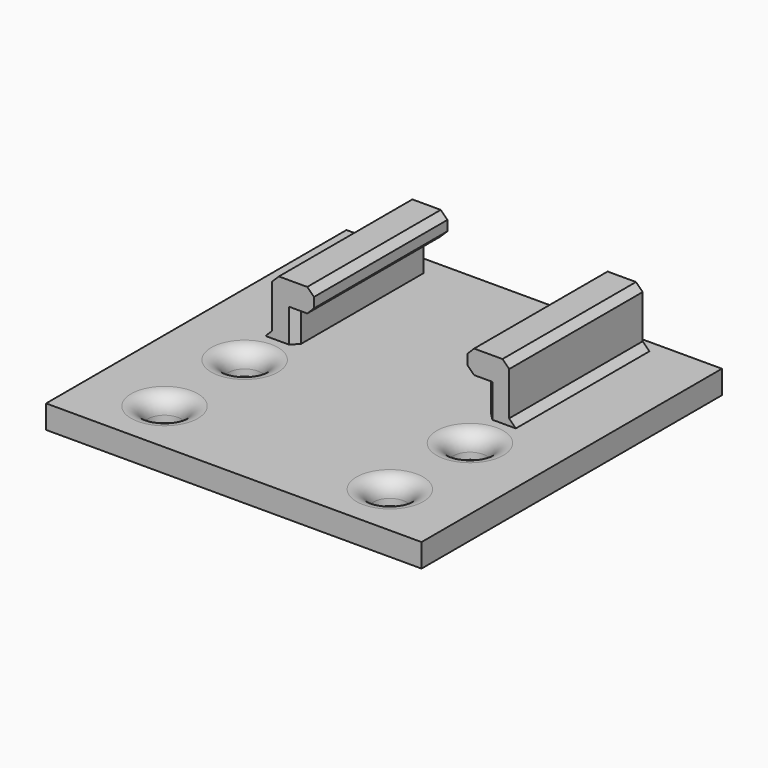
from build123d import *

# Parameters (mm, degrees)
F0_W      = 57.15
F0_H      = 31.75
F0_R      = 2.54
F1_DEPTH  = 3.556
F2_W      = 57.15
F2_H      = 25.4
F3_DEPTH  = 3.556
F4_R      = 2.54
F5_W      = 3.556
F5_H      = 25.4
F6_DEPTH  = 5.08
F7_W      = 6.35
F7_H      = 25.4
F8_DEPTH  = 3.556
F9_SIZE   = 1.016
F11_DEPTH = 7.62
F12_R     = 9.8916732659
F13_DEPTH = 25.4
F14_R     = 0.8


with BuildPart() as f1:
    # F0 (on Top) → F1 (new body)
    with BuildSketch(Plane.XY):
        Rectangle(F0_W, F0_H)
        with Locations((-17.145, -7.62)):
            Circle(F0_R, mode=Mode.SUBTRACT)
        with Locations((17.145, -7.62)):
            Circle(F0_R, mode=Mode.SUBTRACT)
        with Locations((-17.145, 7.62)):
            Circle(F0_R, mode=Mode.SUBTRACT)
        with Locations((17.145, 7.62)):
            Circle(F0_R, mode=Mode.SUBTRACT)
    extrude(amount=F1_DEPTH)

    # F2 (on Top) → F3 (join)
    with BuildSketch(Plane.XY):
        with Locations((0, 28.575)):
            Rectangle(F2_W, F2_H)
    extrude(amount=F3_DEPTH)

    # F4
    f4_edges = [f1.edges().sort_by_distance(p)[0] for p in [
        (-19.685, 7.62, 3.556),
        (14.605, 7.62, 3.556),
        (14.605, -7.62, 3.556),
        (-19.685, -7.62, 3.556),
    ]]
    fillet(f4_edges, radius=F4_R)

    # F5 (on face) → F6 (join)
    with BuildSketch(Plane.XY.offset(3.556)):
        with Locations((-16.256, 26.67)):
            Rectangle(F5_W, F5_H)
        with Locations((16.256, 26.67)):
            Rectangle(F5_W, F5_H)
    extrude(amount=F6_DEPTH)

    # F7 (on face) → F8 (join)
    with BuildSketch(Plane.XY.offset(8.636)):
        with Locations((-14.859, 26.67)):
            Rectangle(F7_W, F7_H)
        with Locations((14.859, 26.67)):
            Rectangle(F7_W, F7_H)
    extrude(amount=F8_DEPTH)

    # F9
    f9_edges = [f1.edges().sort_by_distance(p)[0] for p in [
        (-11.684, 26.67, 12.192),
        (-11.684, 26.67, 8.636),
        (11.684, 26.67, 12.192),
        (11.684, 26.67, 8.636),
        (18.034, 26.67, 12.192),
        (-18.034, 26.67, 12.192),
        (18.034, 26.67, 3.556),
        (-18.034, 26.67, 3.556),
        (14.478, 39.37, 6.096),
        (-14.478, 39.37, 6.096),
        (-14.478, 13.97, 6.096),
        (14.478, 13.97, 6.096),
    ]]
    chamfer(f9_edges, length=F9_SIZE)

    # F10 (on face) → F11 (join)
    with BuildSketch(Plane(origin=(0, 0, 0), x_dir=(1, 0, 0), z_dir=(0, 0, -1))):
        Polygon((-11.96, -41.275), (-7.16, -41.275), (-7.16, -39.675), (-10.36, -39.675), (-10.36, -31.115), (-11.96, -31.115), align=None)
        Polygon((10.36, -31.115), (10.36, -39.675), (7.16, -39.675), (7.16, -41.275), (11.96, -41.275), (11.96, -31.115), align=None)
    extrude(amount=F11_DEPTH)

    # F12 (on face) → F13 (cut)
    with BuildSketch(Plane(origin=(0, 41.275, 0), x_dir=(-1, 0, 0), z_dir=(0, 1, 0))):
        with Locations((0, -10.16)):
            Circle(F12_R)
    extrude(amount=-F13_DEPTH, mode=Mode.SUBTRACT)

    # F14
    f14_edges = [f1.edges().sort_by_distance(p)[0] for p in [
        (9.56, 40.475, -7.62),
        (-9.56, 40.475, -7.62),
        (-7.16, 40.475, 0),
        (7.16, 40.475, 0),
    ]]
    fillet(f14_edges, radius=F14_R)


solid = f1.part
